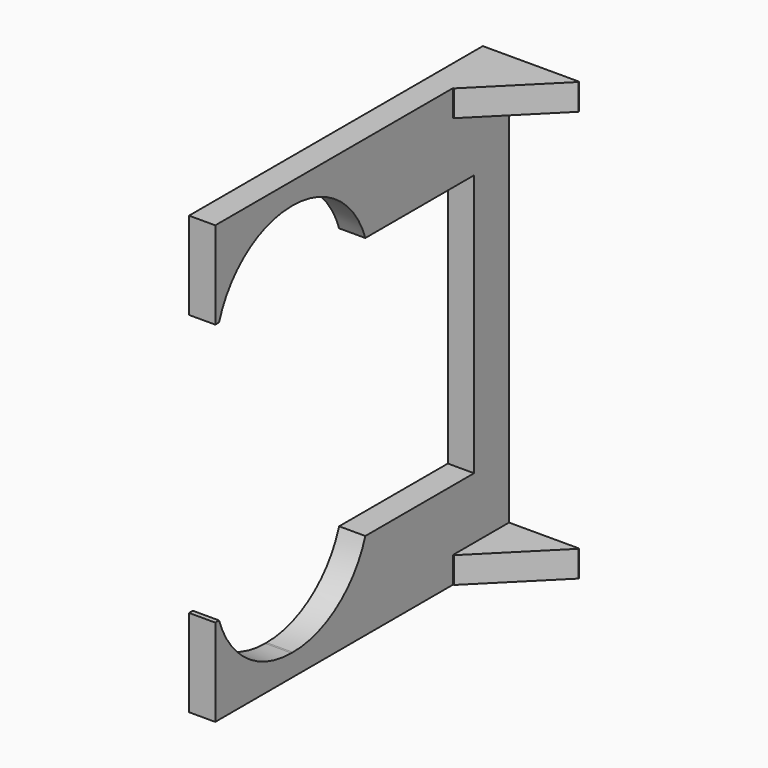
from build123d import *

# Parameters (mm, degrees)
BOX281_W        = 97
BOX281_H        = 22
BOX281_DEPTH    = 45
FILLET032_R     = 10.9
BOX277_W        = 8
BOX277_H        = 8
BOX277_DEPTH    = 3
CHAMFER052_SIZE = 7.9
BOX278_W        = 3
BOX278_H        = 5
BOX278_DEPTH    = 50
BOX280_W        = 3
BOX280_H        = 42
BOX280_DEPTH    = 10
BOX279_W        = 3
BOX279_H        = 42
BOX279_DEPTH    = 10
BOX276_W        = 8
BOX276_H        = 8
BOX276_DEPTH    = 3
CHAMFER051_SIZE = 7.9


with BuildPart() as battery_pack002:
    # Box281 → Box281 (new body)
    with BuildSketch(Plane.XY):
        with Locations((48.5, 11)):
            Rectangle(BOX281_W, BOX281_H)
    extrude(amount=BOX281_DEPTH)

    # Fillet032
    fillet032_edges = [battery_pack002.edges().sort_by_distance(p)[0] for p in [
        (48.5, 0, 0),
        (48.5, 0, 45),
        (48.5, 22, 0),
        (48.5, 22, 45),
    ]]
    fillet(fillet032_edges, radius=FILLET032_R)


with BuildPart() as battery_pack002_1:
    # Fillet032 placement: moved
    add(battery_pack002.part.moved(Location((0, 0, 2.5))))


with BuildPart() as chamfer052:
    # Box277 → Box277 (new body)
    with BuildSketch(Plane(origin=(3, 32, 0), x_dir=(1, 0, 0), z_dir=(0, 0, 1))):
        with Locations((4, 4)):
            Rectangle(BOX277_W, BOX277_H)
    extrude(amount=BOX277_DEPTH)

    # Chamfer052
    chamfer052_edges = [chamfer052.edges().sort_by_distance(p)[0] for p in [
        (11, 32, 1.5),
    ]]
    chamfer(chamfer052_edges, length=CHAMFER052_SIZE)


with BuildPart() as chamfer052_1:
    # Chamfer052 placement: moved
    add(chamfer052.part.moved(Location((0, 2, 47))))


with BuildPart() as cube249:
    # Box278 → Box278 (new body)
    with BuildSketch(Plane(origin=(0, 37, 0), x_dir=(1, 0, 0), z_dir=(0, 0, 1))):
        with Locations((1.5, 2.5)):
            Rectangle(BOX278_W, BOX278_H)
    extrude(amount=BOX278_DEPTH)


with BuildPart() as cube251:
    # Box280 → Box280 (new body)
    with BuildSketch(Plane.XY.offset(40)):
        with Locations((1.5, 21)):
            Rectangle(BOX280_W, BOX280_H)
    extrude(amount=BOX280_DEPTH)


with BuildPart() as cube250:
    # Box279 → Box279 (new body)
    with BuildSketch(Plane.XY):
        with Locations((1.5, 21)):
            Rectangle(BOX279_W, BOX279_H)
    extrude(amount=BOX279_DEPTH)


with BuildPart() as cut199:
    # Box276 → Box276 (new body)
    with BuildSketch(Plane(origin=(3, 32, 0), x_dir=(1, 0, 0), z_dir=(0, 0, 1))):
        with Locations((4, 4)):
            Rectangle(BOX276_W, BOX276_H)
    extrude(amount=BOX276_DEPTH)

    # Chamfer051
    chamfer051_edges = [cut199.edges().sort_by_distance(p)[0] for p in [
        (11, 32, 1.5),
    ]]
    chamfer(chamfer051_edges, length=CHAMFER051_SIZE)


with BuildPart() as cut199_1:
    # Chamfer051 placement: moved
    add(cut199.part.moved(Location((0, 2, 0))))

    # Fusion074: union Chamfer052, Cube249, Cube251, Cube250
    add(chamfer052_1.part)
    add(cube249.part)
    add(cube251.part)
    add(cube250.part)

    # Cut199: cut Battery pack002
    add(battery_pack002_1.part, mode=Mode.SUBTRACT)


with BuildPart() as cut199_2:
    # Cut199 placement: moved
    add(cut199_1.part.moved(Location((69.5, 0, 0))))


solid = cut199_2.part
